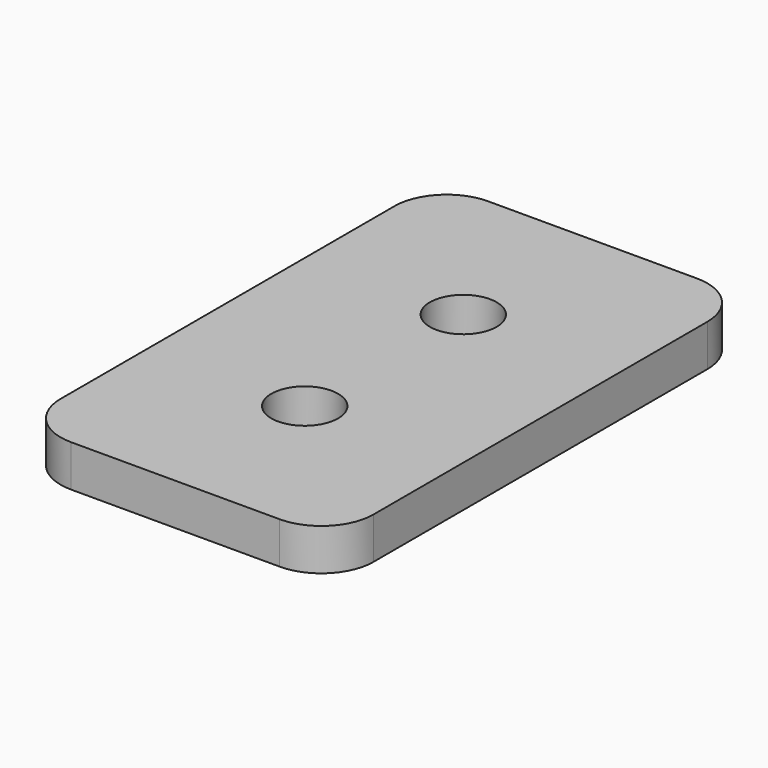
from build123d import *

# Parameters (mm, degrees)
SKETCH_R  = 1.6
PAD_DEPTH = 2


with BuildPart() as part:
    # Sketch → Pad (new body)
    with BuildSketch(Plane.XY):
        with BuildLine():
            Line((-7.5, 10), (-7.5, -10))
            ThreePointArc((-7.5, -10), (-6.767767, -11.767767), (-5, -12.5))
            Line((-5, -12.5), (5, -12.5))
            ThreePointArc((5, -12.5), (6.767767, -11.767767), (7.5, -10))
            Line((7.5, -10), (7.5, 10))
            ThreePointArc((7.5, 10), (6.767767, 11.767767), (5, 12.5))
            Line((5, 12.5), (-5, 12.5))
            ThreePointArc((-5, 12.5), (-6.767767, 11.767767), (-7.5, 10))
        make_face()
        with Locations((0, 4.75)):
            Circle(SKETCH_R, mode=Mode.SUBTRACT)
        with Locations((0, -4.75)):
            Circle(SKETCH_R, mode=Mode.SUBTRACT)
    extrude(amount=PAD_DEPTH)


solid = part.part
